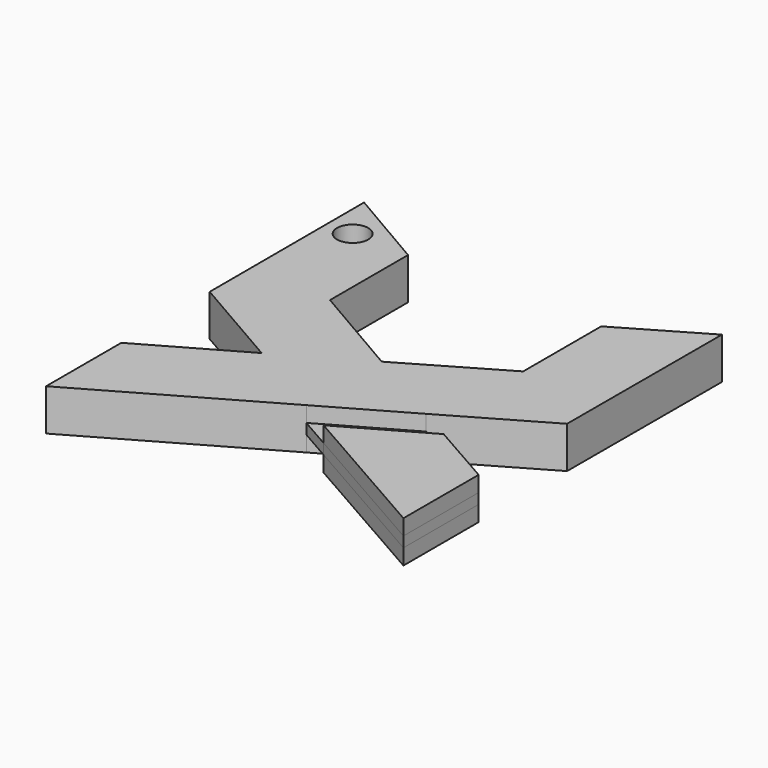
from build123d import *

# Parameters (mm, degrees)
F1_DEPTH = 0.5
F2_DEPTH = 2
F3_R     = 1.5
F4_DEPTH = 12.5


with BuildPart() as f1:
    # F0 (on Top) → F1 (new body, symmetric)
    with BuildSketch(Plane.XY):
        Polygon((-10.708367452, 25.9872935712), (-19.9792031199, 20.6009205431), (-19.9792031199, 11.5576852113), (-12.0769068599, 16.0685218871), (-2.8281658888, 21.4038528502), (-2.8039515018, 39.956137538), (-10.708367452, 35.3513844311), align=None)
        Polygon((-29.2500387877, 35.3513844311), (-37.1544547379, 39.956137538), (-37.130240351, 21.4038528502), (-27.8814993799, 16.0685218871), (-37.130240351, 10.7959629968), (-37.130240351, 1.7703475896), (-19.9792031199, 11.5576852113), (-19.9792031199, 20.6009205431), (-29.2500387877, 25.9872935712), align=None)
        Polygon((-12.0769068599, 16.0685218871), (-19.9792031199, 11.5576852113), (-16.9217958666, 9.8129582521), (-9.0056933559, 14.3176723266), align=None)
        Polygon((-9.0056933559, 14.3176723266), (-16.9217958666, 9.8129582521), (-2.8281658888, 1.7703475896), (-2.8281658888, 10.7959629968), align=None)
    extrude(amount=F1_DEPTH, both=True)


with BuildPart() as f2:
    # F0 (on Top) → F2 (new body, symmetric)
    with BuildSketch(Plane.XY):
        Polygon((-9.0056933559, 14.3176723266), (-16.9217958666, 9.8129582521), (-2.8281658888, 1.7703475896), (-2.8281658888, 10.7959629968), align=None)
    extrude(amount=F2_DEPTH, both=True)


with BuildPart() as f2b:
    # F0 (on Top) → F2, piece 2 (new body, symmetric)
    with BuildSketch(Plane.XY):
        Polygon((-10.708367452, 25.9872935712), (-19.9792031199, 20.6009205431), (-19.9792031199, 11.5576852113), (-12.0769068599, 16.0685218871), (-2.8281658888, 21.4038528502), (-2.8039515018, 39.956137538), (-10.708367452, 35.3513844311), align=None)
        Polygon((-29.2500387877, 35.3513844311), (-37.1544547379, 39.956137538), (-37.130240351, 21.4038528502), (-27.8814993799, 16.0685218871), (-37.130240351, 10.7959629968), (-37.130240351, 1.7703475896), (-19.9792031199, 11.5576852113), (-19.9792031199, 20.6009205431), (-29.2500387877, 25.9872935712), align=None)
    extrude(amount=F2_DEPTH, both=True)


with BuildPart() as f4_tool:
    # F3 (on face) → F4 (new body, symmetric)
    with BuildSketch(Plane.XY.offset(2)):
        with Locations((-34.6485792218, 35.456137538)):
            Circle(F3_R)
    extrude(amount=F4_DEPTH, both=True)


with BuildPart() as f1_1:
    add(f1.part)

    # F4: cut by f4_tool
    add(f4_tool.part, mode=Mode.SUBTRACT)


with BuildPart() as f2b_1:
    add(f2b.part)

    # F4: cut by f4_tool
    add(f4_tool.part, mode=Mode.SUBTRACT)


solid = Compound([f2.part, f1_1.part, f2b_1.part])
